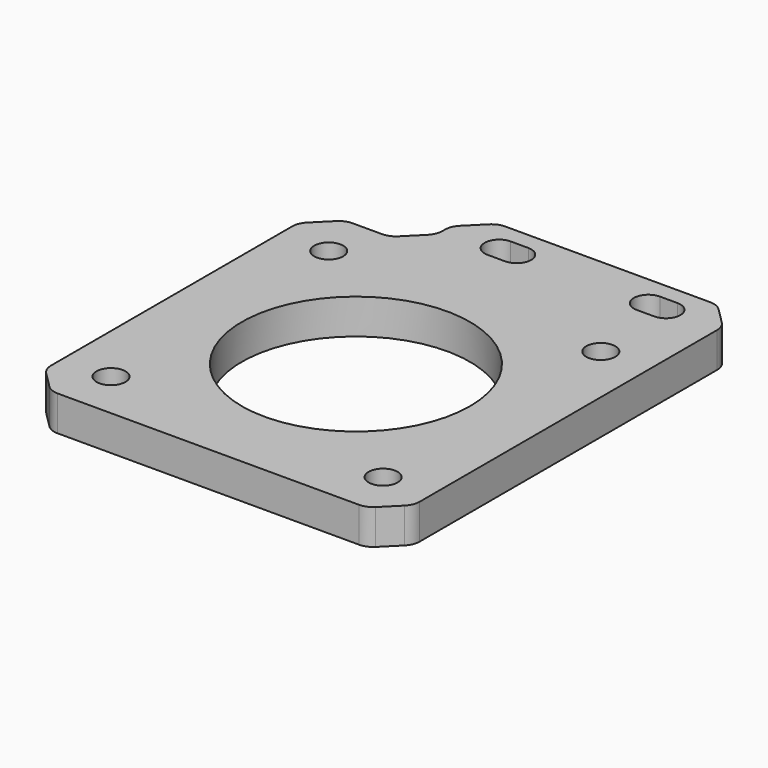
from build123d import *

# Parameters (mm, degrees)
SKETCH026_R     = 13
SKETCH026_R_2   = 1.65
PAD013_DEPTH    = 4
CHAMFER009_SIZE = 3
FILLET002_R     = 2


with BuildPart() as part:
    # Sketch026 → Pad013 (new body)
    with BuildSketch(Plane.XY):
        Polygon((-21, -21), (-21, 21), (-10, 21), (-10, 29), (21, 29), (21, -21), align=None)
        Circle(SKETCH026_R, mode=Mode.SUBTRACT)
        with Locations((-15.5, 15.5)):
            Circle(SKETCH026_R_2, mode=Mode.SUBTRACT)
        with Locations((15.5, 15.5)):
            Circle(SKETCH026_R_2, mode=Mode.SUBTRACT)
        with Locations((15.5, -15.5)):
            Circle(SKETCH026_R_2, mode=Mode.SUBTRACT)
        with Locations((-15.5, -15.5)):
            Circle(SKETCH026_R_2, mode=Mode.SUBTRACT)
        with BuildLine():
            ThreePointArc((-4, 27.05), (-5.65, 25.4), (-4, 23.75))
            Line((-4, 23.75), (-2, 23.75))
            ThreePointArc((-2, 23.75), (-0.35, 25.4), (-2, 27.05))
            Line((-2, 27.05), (-4, 27.05))
        make_face(mode=Mode.SUBTRACT)
        with BuildLine():
            ThreePointArc((13, 27.05), (11.35, 25.4), (13, 23.75))
            Line((13, 23.75), (15, 23.75))
            ThreePointArc((15, 23.75), (16.65, 25.4), (15, 27.05))
            Line((15, 27.05), (13, 27.05))
        make_face(mode=Mode.SUBTRACT)
    extrude(amount=PAD013_DEPTH)

    # Chamfer009
    chamfer009_edges = [part.edges().sort_by_distance(p)[0] for p in [
        (-10, 29, 2),
        (-10, 21, 2),
        (21, 29, 2),
        (21, -21, 2),
        (-21, -21, 2),
        (-21, 21, 2),
    ]]
    chamfer(chamfer009_edges, length=CHAMFER009_SIZE)

    # Fillet002
    fillet002_edges = [part.edges().sort_by_distance(p)[0] for p in [
        (21, 26, 2),
        (18, 29, 2),
        (21, -18, 2),
        (18, -21, 2),
        (-18, -21, 2),
        (-21, -18, 2),
        (-18, 21, 2),
        (-21, 18, 2),
        (-13, 21, 2),
        (-10, 24, 2),
        (-10, 26, 2),
        (-7, 29, 2),
    ]]
    fillet(fillet002_edges, radius=FILLET002_R)


with BuildPart() as part_1:
    # Body011 placement: moved
    add(part.part.moved(Location((30, -32, 50))))


solid = part_1.part
